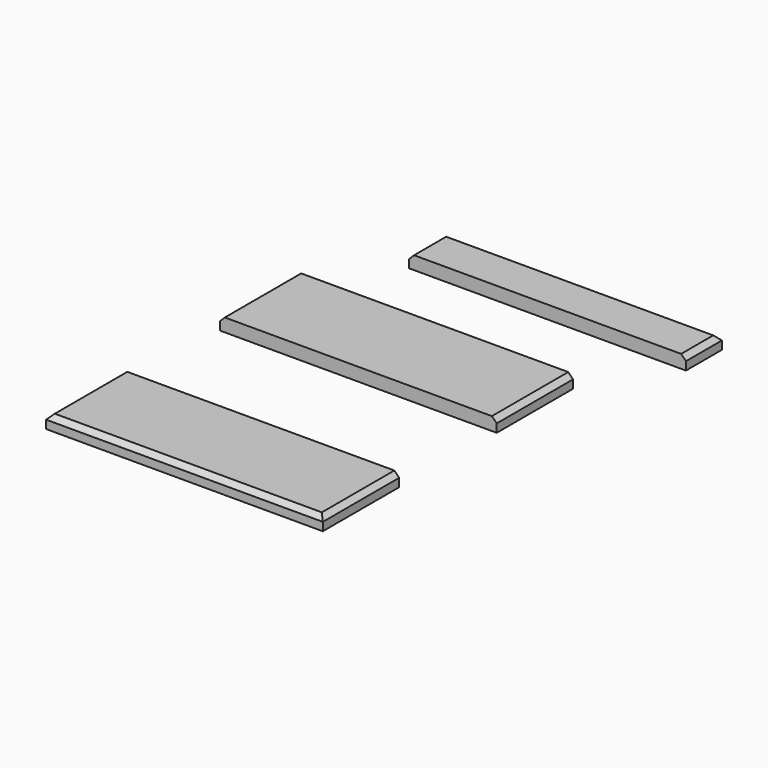
from build123d import *

# Parameters (mm, degrees)
F0_W     = 400
F0_H     = 138
F1_DEPTH = 19
F2_W     = 400
F2_H     = 65
F3_DEPTH = 19
F4_W     = 400
F4_H     = 138
F5_DEPTH = 19
F6_SIZE  = 7
F7_SIZE  = 7
F8_SIZE  = 7


with BuildPart() as f1:
    # F0 (on Top) → F1 (new body)
    with BuildSketch(Plane.XY):
        with Locations((-8.880615, -163.273152)):
            Rectangle(F0_W, F0_H)
    extrude(amount=F1_DEPTH)

    # F7
    f7_edges = [f1.edges().sort_by_distance(p)[0] for p in [
        (-208.880615, -163.273152, 19),
        (191.119385, -163.273152, 19),
    ]]
    chamfer(f7_edges, length=F7_SIZE)


with BuildPart() as f3:
    # F2 (on Top) → F3 (new body)
    with BuildSketch(Plane.XY):
        with Locations((62.868291, 52.457108)):
            Rectangle(F2_W, F2_H)
    extrude(amount=F3_DEPTH)

    # F8
    f8_edges = [f3.edges().sort_by_distance(p)[0] for p in [
        (-137.131709, 52.457108, 19),
        (62.868291, 84.957108, 19),
        (262.868291, 52.457108, 19),
    ]]
    chamfer(f8_edges, length=F8_SIZE)


with BuildPart() as f5:
    # F4 (on Top) → F5 (new body)
    with BuildSketch(Plane.XY):
        with Locations((-11.807979, -473.822236)):
            Rectangle(F4_W, F4_H)
    extrude(amount=F5_DEPTH)

    # F6
    f6_edges = [f5.edges().sort_by_distance(p)[0] for p in [
        (-11.807979, -542.822236, 19),
        (-211.807979, -473.822236, 19),
        (188.192021, -473.822236, 19),
    ]]
    chamfer(f6_edges, length=F6_SIZE)


solid = Compound([f1.part, f3.part, f5.part])
